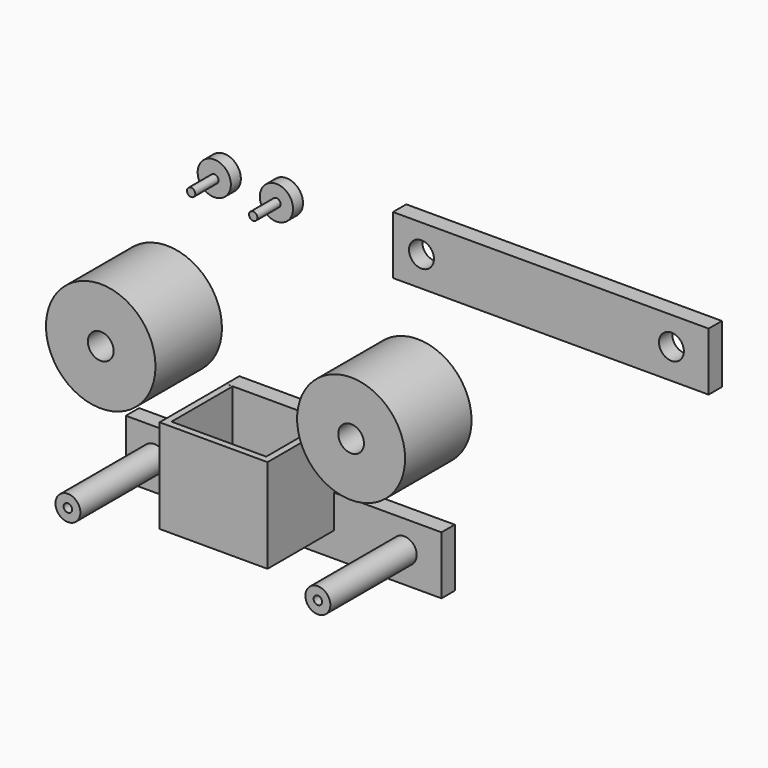
from build123d import *

# Parameters (mm, degrees)
F0_R      = 16.51
F0_R_2    = 3.937
F1_DEPTH  = 25.4
F2_R      = 16.7447564174
F2_R_2    = 3.937
F3_DEPTH  = 25.4
F5_W      = 96.52
F5_H      = 17.78
F6_DEPTH  = 5.08
F4_R      = 3.81
F7_DEPTH  = 38.1
F8_DEPTH  = 38.1
F9_W      = 96.52
F9_H      = 17.78
F9_R      = 3.81
F10_DEPTH = 5.08
F11_R     = 1.27
F12_DEPTH = 12.7
F13_R     = 5.08
F14_DEPTH = 3.81
F15_W     = 33.0071151257
F15_H     = 3.3168159425
F16_DEPTH = 25.4
F17_R     = 1.2954
F18_DEPTH = 25.4
F19_R     = 1.2954
F20_DEPTH = 25.4
F21_W     = 2.0226240158
F21_H     = 25.4
F22_DEPTH = 25.4
F23_W     = 2.032
F23_H     = 25.4
F24_DEPTH = 25.4
F25_W     = 28.9524911098
F25_H     = 2.032
F26_DEPTH = 25.4
F28_DEPTH = 18.542
F30_R     = 5.08
F30_R_2   = 1.27
F31_DEPTH = 3.81
F32_DEPTH = 12.7


with BuildPart() as f1:
    # F0 (on Front) → F1 (new body)
    with BuildSketch(Plane.XZ):
        Circle(F0_R)
        Circle(F0_R_2, mode=Mode.SUBTRACT)
    extrude(amount=F1_DEPTH)


with BuildPart() as f3:
    # F2 (on Front) → F3 (new body)
    with BuildSketch(Plane.XZ):
        with Locations((-76.5563324094, 0)):
            Circle(F2_R)
        with Locations((-76.5563324094, 0)):
            Circle(F2_R_2, mode=Mode.SUBTRACT)
    extrude(amount=F3_DEPTH)


with BuildPart() as f6:
    # F5 (on Front) → F6 (new body)
    with BuildSketch(Plane.XZ):
        with Locations((-36.8777387089, -38.6449761546)):
            Rectangle(F5_W, F5_H)
    extrude(amount=F6_DEPTH)

    # F4 (on Front) → F7 (join)
    with BuildSketch(Plane.XZ):
        with Locations((0, -38.3352190256)):
            Circle(F4_R)
    extrude(amount=F7_DEPTH)

    # F4 (on Front) → F8 (join)
    with BuildSketch(Plane.XZ):
        with Locations((-76.4335915446, -38.3352190256)):
            Circle(F4_R)
    extrude(amount=F8_DEPTH)

    # F15 (on face) → F16 (join)
    with BuildSketch(Plane.XZ.offset(5.08)):
        with Locations((-37.9974767566, -38.2924098521)):
            Rectangle(F15_W, F15_H)
    extrude(amount=F16_DEPTH)

    # F17 (on face) → F18 (cut)
    with BuildSketch(Plane.XZ.offset(38.1)):
        with Locations((-76.4335915446, -38.3352190256)):
            Circle(F17_R)
    extrude(amount=-F18_DEPTH, mode=Mode.SUBTRACT)

    # F19 (on face) → F20 (cut)
    with BuildSketch(Plane.XZ.offset(38.1)):
        with Locations((0, -38.3352190256)):
            Circle(F19_R)
    extrude(amount=-F20_DEPTH, mode=Mode.SUBTRACT)

    # F21 (on face) → F22 (join)
    with BuildSketch(Plane.XY.offset(-36.6340018809)):
        with Locations((-53.4897223115, -17.78)):
            Rectangle(F21_W, F21_H)
    extrude(amount=F22_DEPTH)

    # F23 (on face) → F24 (join)
    with BuildSketch(Plane.XY.offset(-36.6340018809)):
        with Locations((-22.5099191937, -17.78)):
            Rectangle(F23_W, F23_H)
    extrude(amount=F24_DEPTH)

    # F25 (on face) → F26 (join)
    with BuildSketch(Plane.XY.offset(-36.6340018809)):
        with Locations((-38.0021647487, -29.464)):
            Rectangle(F25_W, F25_H)
    extrude(amount=F26_DEPTH)

    # F27 (on face) → F28 (join)
    with BuildSketch(Plane.XY.offset(-29.7549761546)):
        Polygon((-23.5259191937, -5.08), (-21.4939191937, -5.08), (-21.4939191937, 0), (-54.5010343194, 0), (-54.5010343194, -5.08), (-52.4784103036, -5.08), align=None)
    extrude(amount=F28_DEPTH)


with BuildPart() as f10:
    # F9 (on Front) → F10 (new body)
    with BuildSketch(Plane.XZ):
        with Locations((44.8049414659, 42.7589275086)):
            Rectangle(F9_W, F9_H)
        with Locations((5.2571414659, 43.0637275086)):
            Circle(F9_R, mode=Mode.SUBTRACT)
        with Locations((81.6857414659, 43.0637275086)):
            Circle(F9_R, mode=Mode.SUBTRACT)
    extrude(amount=F10_DEPTH)


with BuildPart() as f12:
    # F11 (on Front) → F12 (new body)
    with BuildSketch(Plane.XZ):
        with Locations((-59.0801499784, 41.9535636902)):
            Circle(F11_R)
    extrude(amount=F12_DEPTH)

    # F13 (on Front) → F14 (join)
    with BuildSketch(Plane.XZ):
        with Locations((-59.1185614467, 42.0741327107)):
            Circle(F13_R)
    extrude(amount=F14_DEPTH)


with BuildPart() as f31:
    # F30 (on Front) → F31 (new body)
    with BuildSketch(Plane.XZ):
        with Locations((-40.1015244424, 41.7113900185)):
            Circle(F30_R)
        with Locations((-40.1015244424, 41.7113900185)):
            Circle(F30_R_2, mode=Mode.SUBTRACT)
    extrude(amount=F31_DEPTH)

    # F30 (on Front) → F32 (join)
    with BuildSketch(Plane.XZ):
        with Locations((-40.1015244424, 41.7113900185)):
            Circle(F30_R_2)
    extrude(amount=F32_DEPTH)


solid = Compound([f1.part, f3.part, f6.part, f10.part, f12.part, f31.part])
